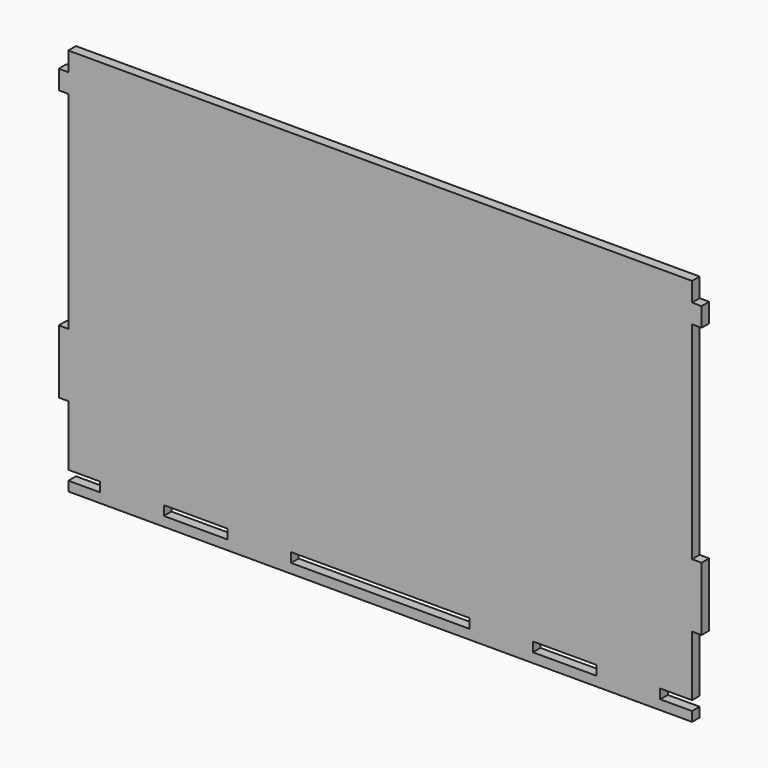
from build123d import *

# Parameters (mm, degrees)
F0_W     = 20
F0_H     = 3
F0_W_2   = 56
F1_DEPTH = 1.5


with BuildPart() as f1:
    # F0 (on Front) → F1 (new body, symmetric)
    with BuildSketch(Plane.XZ):
        Polygon((-98, -56.5), (-88, -56.5), (-88, -59.5), (-98, -59.5), (-98, -62.5), (0, -62.5), (98, -62.5), (98, -59.5), (88, -59.5), (88, -56.5), (98, -56.5), (98, -37.5), (101, -37.5), (101, -17.5), (98, -17.5), (98, 47.5), (101, 47.5), (101, 53.5), (98, 53.5), (98, 59.5), (0, 59.5), (-98, 59.5), (-98, 53.5), (-101, 53.5), (-101, 47.5), (-98, 47.5), (-98, -17.5), (-101, -17.5), (-101, -37.5), (-98, -37.5), align=None)
        with Locations((-58, -58)):
            Rectangle(F0_W, F0_H, mode=Mode.SUBTRACT)
        with Locations((0, -58)):
            Rectangle(F0_W_2, F0_H, mode=Mode.SUBTRACT)
        with Locations((58, -58)):
            Rectangle(F0_W, F0_H, mode=Mode.SUBTRACT)
    extrude(amount=F1_DEPTH, both=True)


solid = f1.part
